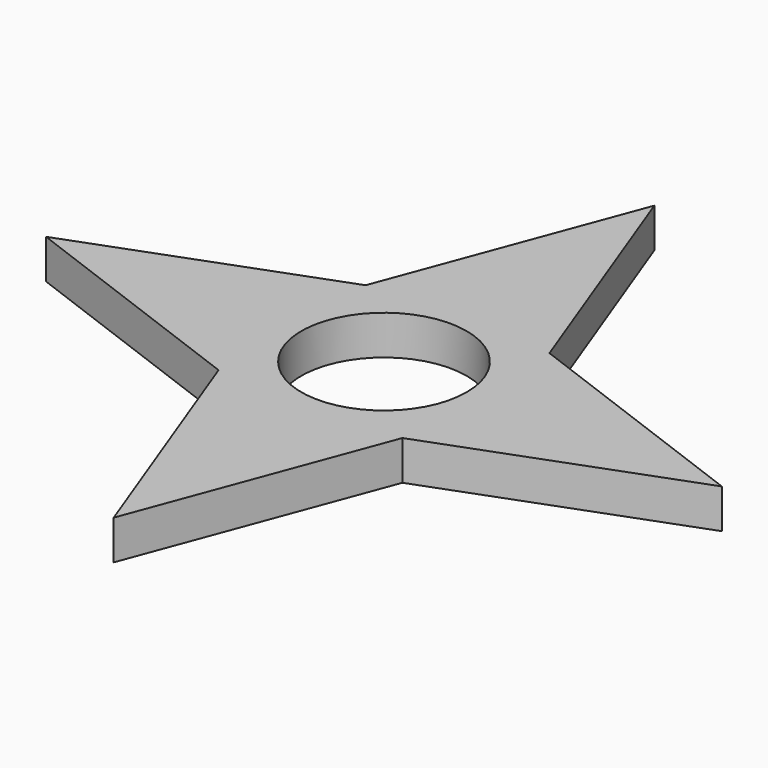
from build123d import *

# Parameters (mm, degrees)
F0_W     = 17.78
F0_H     = 17.78
F0_R     = 8.001
F1_DEPTH = 3.81


with BuildPart() as f1:
    # F0 (on Top) → F1 (new body)
    with BuildSketch(Plane.XY):
        Polygon((-8.89, 8.89), (8.89, 8.89), (0, 32.683442), align=None)
        Polygon((-8.89, -8.89), (-8.89, 8.89), (-32.683442, 0), align=None)
        Polygon((0, -32.683442), (8.89, -8.89), (-8.89, -8.89), align=None)
        Polygon((32.683442, 0), (8.89, 8.89), (8.89, -8.89), align=None)
        Rectangle(F0_W, F0_H)
        Circle(F0_R, mode=Mode.SUBTRACT)
    extrude(amount=F1_DEPTH)


solid = f1.part
